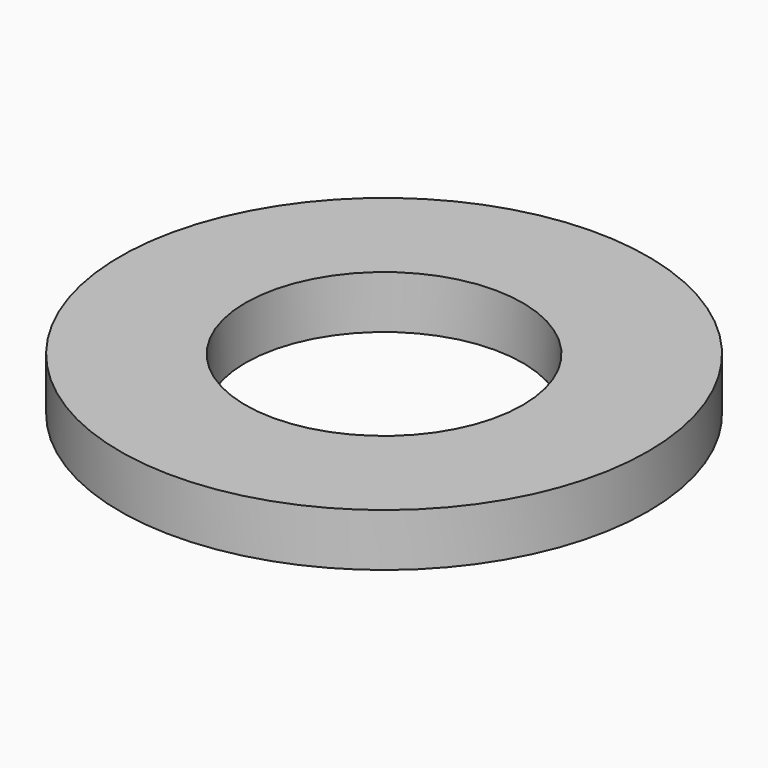
from build123d import *

# Parameters (mm, degrees)
SKETCH_R   = 4
SKETCH_R_2 = 2.1
PAD_DEPTH  = 0.8


with BuildPart() as part:
    # Sketch → Pad (new body)
    with BuildSketch(Plane.XY):
        Circle(SKETCH_R)
        Circle(SKETCH_R_2, mode=Mode.SUBTRACT)
    extrude(amount=PAD_DEPTH)


solid = part.part
